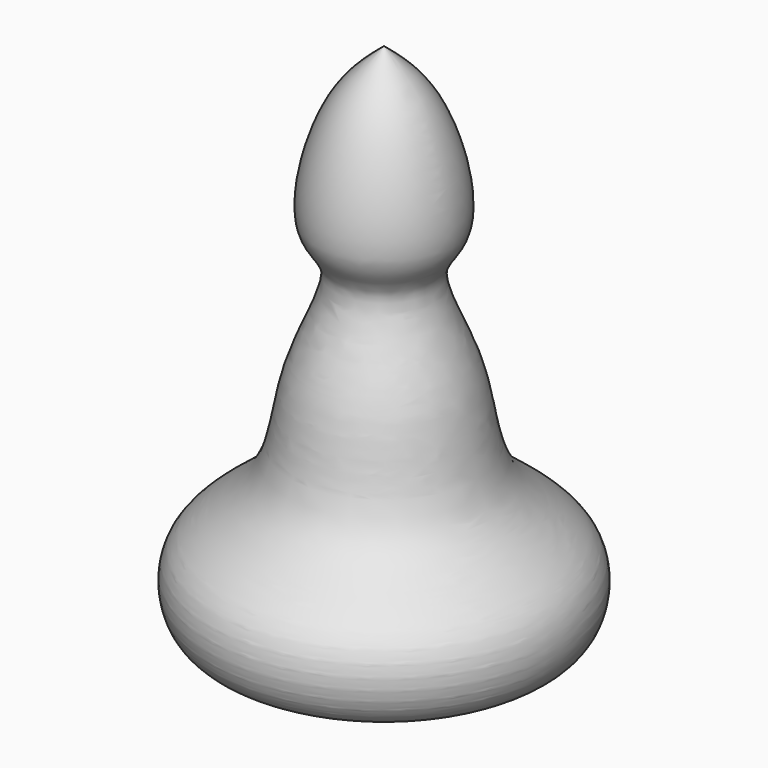
from build123d import *


with BuildPart() as f1:
    # F0 (on Front) → F1 (revolve)
    with BuildSketch(Plane.XZ):
        with BuildLine():
            Line((0, 76.4005258679), (0, 0))
            add(Edge.make_bspline(
                [(0, 76.4005258679), (2.4696141549, 74.3572248719), (7.9894184689, 69.7902678717), (12.1032827155, 52.3447115139), (4.8270430665, 47.8594753689), (13.1103689845, 34.7284351485), (12.9645454484, 19.3121964504), (26.3509457554, 13.1903927876), (26.0542370461, 3.4193152329), (20.6399023442, -1.6591541121), (8.137634751, -0.6541499051), (0, 0)],
                knots=[0, 0, 0, 0, 0.1057629666, 0.2363895097, 0.3169181772, 0.4363584888, 0.5632907104, 0.6792449296, 0.7709121662, 0.8508884006, 1, 1, 1, 1], degree=3))
        make_face()
    revolve(axis=Axis((0, 0, 38.200262934), (0, 0, 1)))


with BuildPart() as f1_1:
    # F2: moved
    add(f1.part.moved(Location((50.8, 50.8, 0))))


solid = f1_1.part
